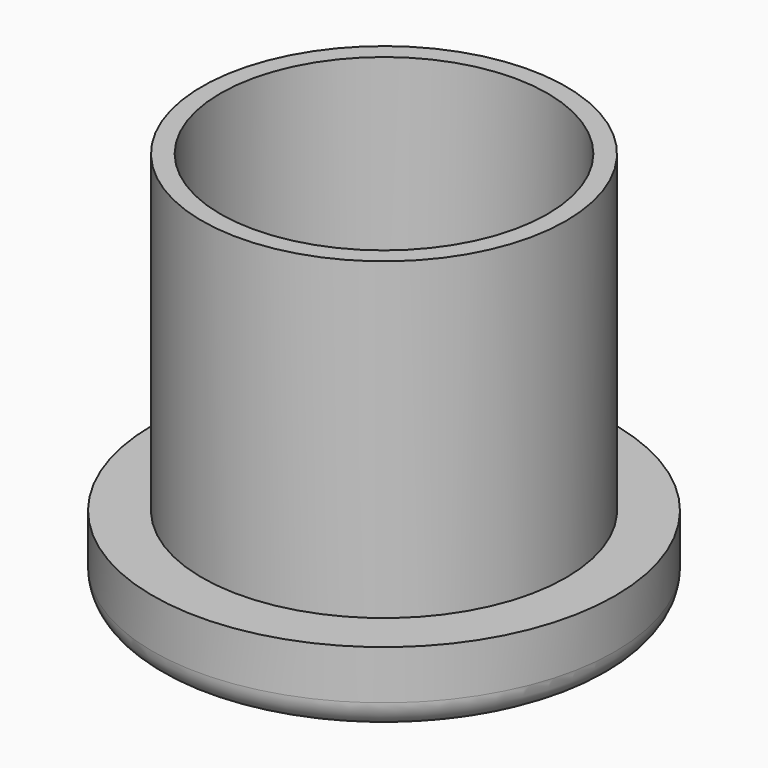
from build123d import *

# Parameters (mm, degrees)
F0_R          = 5
F1_DEPTH      = 10
F0_R_2        = 6.35
F2_DEPTH      = 1.3716
F2_DEPTH_BACK = 0.7366
F3_T          = -0.508
F4_R          = 0.762


with BuildPart() as f1:
    # F0 (on Top) → F1 (new body)
    with BuildSketch(Plane.XY):
        Circle(F0_R)
    extrude(amount=F1_DEPTH)

    # F0 (on Top) → F2 (join, two sides)
    with BuildSketch(Plane.XY) as f2_sk:
        Circle(F0_R_2)
        Circle(F0_R, mode=Mode.SUBTRACT)
        Circle(F0_R)
    extrude(amount=F2_DEPTH)
    extrude(f2_sk.sketch, amount=-F2_DEPTH_BACK)

    # F3
    f3_openings = [f1.faces().sort_by_distance(p)[0] for p in [
        (0, 0, 10),
    ]]
    offset(amount=F3_T, openings=f3_openings, kind=Kind.INTERSECTION)

    # F4
    f4_edges = [f1.edges().sort_by_distance(p)[0] for p in [
        (-6.35, 0, -0.7366),
    ]]
    fillet(f4_edges, radius=F4_R)


solid = f1.part
